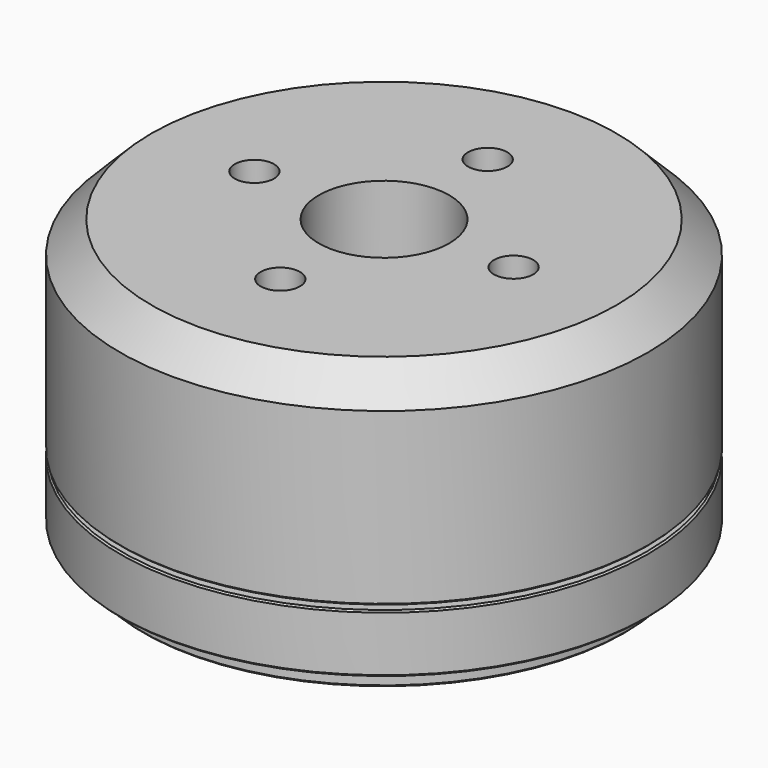
from build123d import *

# Parameters (mm, degrees)
SKETCH_R              = 16.8
PAD_DEPTH             = 18.2
SKETCH001_R           = 1.25
POCKET_DEPTH          = 2
POLARPATTERN_COUNT    = 4
SKETCH002_R           = 4.15
POCKET001_DEPTH       = 18.201
SKETCH003_R           = 1.25
POCKET002_DEPTH       = 3
POLARPATTERN001_COUNT = 4
SKETCH004_R           = 6
SKETCH004_R_2         = 4.15
PAD001_DEPTH          = 1.8
SKETCH005_R           = 16.8
SKETCH005_R_2         = 15.4
POCKET003_DEPTH       = 1.3
SKETCH006_W           = 11.8
SKETCH006_H           = 0.3
CHAMFER_SIZE          = 2
CHAMFER001_SIZE       = 0.1
CHAMFER002_SIZE       = 0.1
CHAMFER003_SIZE       = 0.1
CHAMFER004_SIZE       = 0.1
CHAMFER005_SIZE       = 0.1
POCKET004_DEPTH       = 3


with BuildPart() as part:
    # Sketch → Pad (new body)
    with BuildSketch(Plane.XY):
        Circle(SKETCH_R)
    extrude(amount=PAD_DEPTH)

    # Sketch001 (on Face3 of Pad) → Pocket (cut)
    with BuildSketch(Plane.XY.offset(18.2)):
        with Locations((0, 8.25)):
            Circle(SKETCH001_R)
    pocket = extrude(amount=-POCKET_DEPTH, mode=Mode.SUBTRACT)

    # PolarPattern: Pocket ×4 about axis
    polarpattern_axis = Axis((0, 0, 18.2), (0, 0, 1))
    for i in range(1, POLARPATTERN_COUNT):
        add(pocket.rotate(polarpattern_axis, i * 360 / POLARPATTERN_COUNT), mode=Mode.SUBTRACT)

    # Sketch002 (on Face3 of PolarPattern) → Pocket001 (cut, through all)
    with BuildSketch(Plane.XY.offset(18.2)):
        Circle(SKETCH002_R)
    extrude(amount=-POCKET001_DEPTH, mode=Mode.SUBTRACT)

    # Sketch003 (on Face2 of Pocket001) → Pocket002 (cut)
    with BuildSketch(Plane(origin=(0, 0, 0), x_dir=(1, 0, 0), z_dir=(0, 0, -1))):
        with Locations((0, 11.25)):
            Circle(SKETCH003_R)
    pocket002 = extrude(amount=-POCKET002_DEPTH, mode=Mode.SUBTRACT)

    # PolarPattern001: Pocket002 ×4 about axis
    polarpattern001_axis = Axis((0, 0, 0), (0, 0, -1))
    for i in range(1, POLARPATTERN001_COUNT):
        add(pocket002.rotate(polarpattern001_axis, i * 360 / POLARPATTERN001_COUNT), mode=Mode.SUBTRACT)

    # Sketch004 (on Face2 of PolarPattern001) → Pad001 (join)
    with BuildSketch(Plane(origin=(0, 0, 0), x_dir=(1, 0, 0), z_dir=(0, 0, -1))):
        Circle(SKETCH004_R)
        Circle(SKETCH004_R_2, mode=Mode.SUBTRACT)
    extrude(amount=PAD001_DEPTH)

    # Sketch005 (on Face2 of Pad001) → Pocket003 (cut)
    with BuildSketch(Plane(origin=(0, 0, 0), x_dir=(1, 0, 0), z_dir=(0, 0, -1))):
        Circle(SKETCH005_R)
        Circle(SKETCH005_R_2, mode=Mode.SUBTRACT)
    extrude(amount=-POCKET003_DEPTH, mode=Mode.SUBTRACT)

    # Sketch006 → Groove (revolve, cut)
    with BuildSketch(Plane.XZ):
        with Locations((-10.9, 5.15)):
            Rectangle(SKETCH006_W, SKETCH006_H)
    revolve(axis=Axis((0, 0, 0), (0, 0, 1)), mode=Mode.SUBTRACT)

    # Chamfer
    chamfer_edges = [part.edges().sort_by_distance(p)[0] for p in [
        (-16.8, 0, 18.2),
    ]]
    chamfer(chamfer_edges, length=CHAMFER_SIZE)

    # Chamfer001
    chamfer001_edges = [part.edges().sort_by_distance(p)[0] for p in [
        (-16.8, 0, 1.3),
    ]]
    chamfer(chamfer001_edges, length=CHAMFER001_SIZE)

    # Chamfer002
    chamfer002_edges = [part.edges().sort_by_distance(p)[0] for p in [
        (-15.4, 0, 0),
    ]]
    chamfer(chamfer002_edges, length=CHAMFER002_SIZE)

    # Chamfer003
    chamfer003_edges = [part.edges().sort_by_distance(p)[0] for p in [
        (-15.4, 0, 1.3),
    ]]
    chamfer(chamfer003_edges, length=CHAMFER003_SIZE)

    # Chamfer004
    chamfer004_edges = [part.edges().sort_by_distance(p)[0] for p in [
        (0, -16.8, 5),
    ]]
    chamfer(chamfer004_edges, length=CHAMFER004_SIZE)

    # Chamfer005
    chamfer005_edges = [part.edges().sort_by_distance(p)[0] for p in [
        (5, 0, 5.3),
        (0, 16.8, 5.3),
        (0, -16.8, 5.3),
    ]]
    chamfer(chamfer005_edges, length=CHAMFER005_SIZE)

    # Sketch007 (on Face29 of Chamfer005) → Pocket004 (cut)
    with BuildSketch(Plane(origin=(0, 0, 0), x_dir=(1, 0, 0), z_dir=(0, 0, -1))):
        with BuildLine():
            ThreePointArc((7.884241, 9.298454), (6.82358, 9.298454), (6.82358, 8.237794))
            Line((6.82358, 8.237794), (8.237794, 6.82358))
            ThreePointArc((8.237794, 6.82358), (9.298454, 6.82358), (9.298454, 7.884241))
            Line((9.298454, 7.884241), (7.884241, 9.298454))
        make_face()
    extrude(amount=-POCKET004_DEPTH, mode=Mode.SUBTRACT)


solid = part.part
